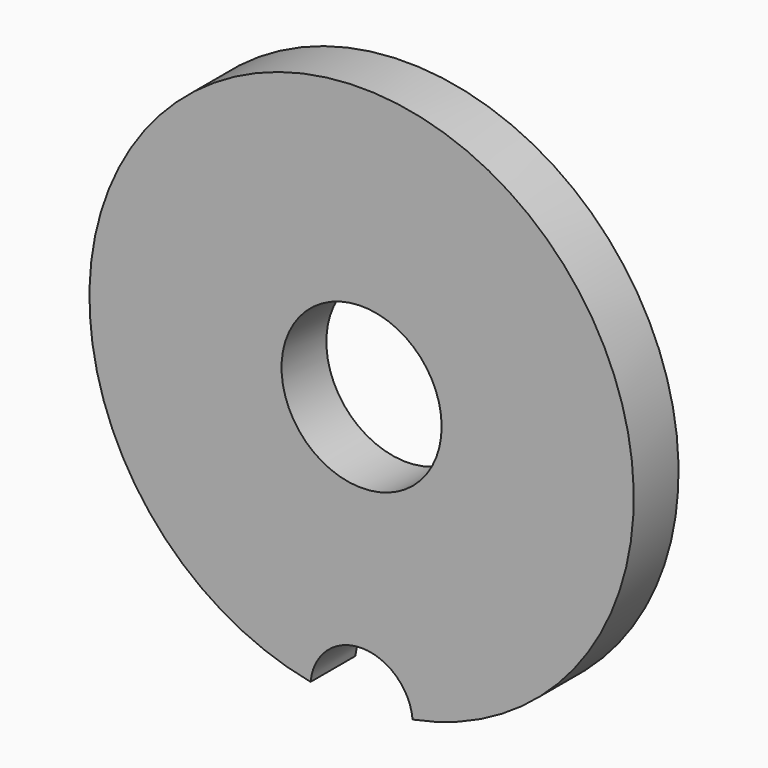
from build123d import *

# Parameters (mm, degrees)
F0_R     = 5
F1_DEPTH = 3.5


with BuildPart() as f1:
    # F0 (on Front) → F1 (new body)
    with BuildSketch(Plane.XZ):
        with BuildLine():
            ThreePointArc((-3.185795, -16.698824), (0, -13.8), (3.185795, -16.698824))
            ThreePointArc((3.185795, -16.698824), (0, 17), (-3.185795, -16.698824))
        make_face()
        Circle(F0_R, mode=Mode.SUBTRACT)
    extrude(amount=F1_DEPTH)


solid = f1.part
